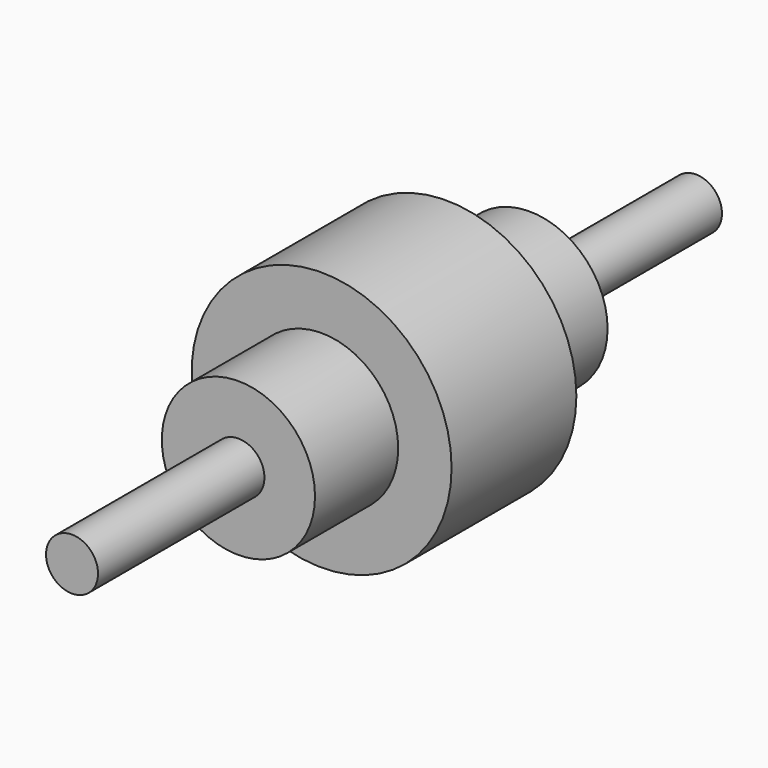
from build123d import *

# Parameters (mm, degrees)
F0_R     = 50
F1_DEPTH = 60
F2_R     = 30
F3_DEPTH = 40
F4_R     = 10
F5_DEPTH = 80
F6_R     = 29.463917
F7_DEPTH = 40
F8_R     = 10
F9_DEPTH = 80


with BuildPart() as f1:
    # F0 (on Front) → F1 (new body)
    with BuildSketch(Plane.XZ):
        Circle(F0_R)
    extrude(amount=F1_DEPTH)

    # F2 (on Front) → F3 (join)
    with BuildSketch(Plane.XZ):
        Circle(F2_R)
    extrude(amount=-F3_DEPTH)

    # F4 (on face) → F5 (join)
    with BuildSketch(Plane(origin=(0, 40, 0), x_dir=(-1, 0, 0), z_dir=(0, 1, 0))):
        Circle(F4_R)
    extrude(amount=F5_DEPTH)

    # F6 (on face) → F7 (join)
    with BuildSketch(Plane.XZ.offset(60)):
        Circle(F6_R)
    extrude(amount=F7_DEPTH)

    # F8 (on face) → F9 (join)
    with BuildSketch(Plane.XZ.offset(100)):
        Circle(F8_R)
    extrude(amount=F9_DEPTH)


solid = f1.part
